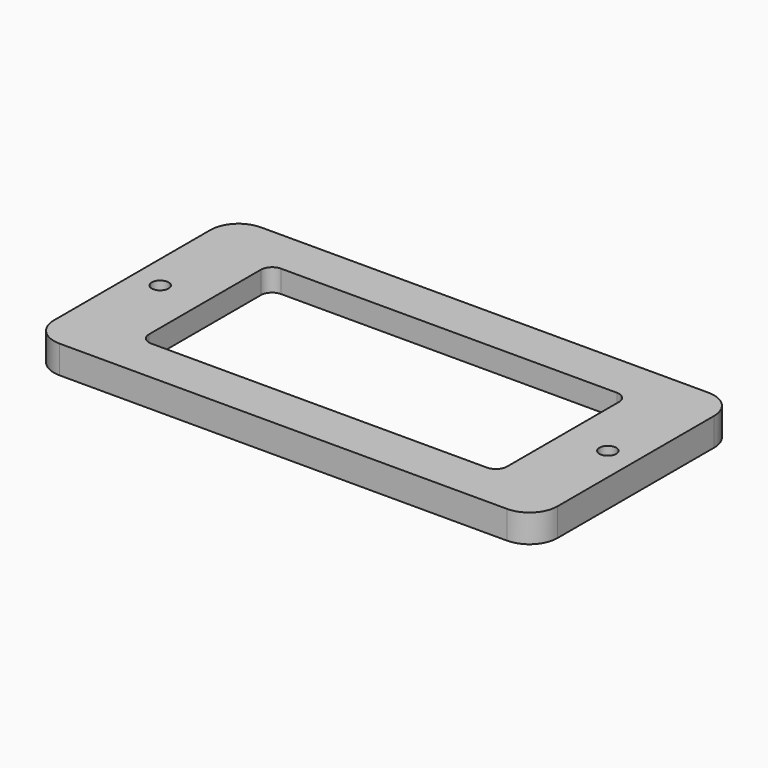
from build123d import *

# Parameters (mm, degrees)
F0_W     = 90
F0_H     = 45
F1_DEPTH = 5
F2_R     = 5
F3_W     = 70
F3_H     = 40
F4_DEPTH = 1
F6_DEPTH = 25
F7_R     = 1.5
F8_DEPTH = 25


with BuildPart() as f1:
    # F0 (on Top) → F1 (new body)
    with BuildSketch(Plane.XY):
        with Locations((45, 22.5)):
            Rectangle(F0_W, F0_H)
    extrude(amount=F1_DEPTH)

    # F2
    f2_edges = [f1.edges().sort_by_distance(p)[0] for p in [
        (90, 45, 2.5),
        (90, 0, 2.5),
        (0, 45, 2.5),
        (0, 0, 2.5),
    ]]
    fillet(f2_edges, radius=F2_R)

    # F3 (on Top) → F4 (cut)
    with BuildSketch(Plane.XY):
        with Locations((45, 25)):
            Rectangle(F3_W, F3_H)
    extrude(amount=F4_DEPTH, mode=Mode.SUBTRACT)

    # F5 (on face) → F6 (cut)
    with BuildSketch(Plane.XY.offset(5)):
        with BuildLine():
            Line((75, 37), (15, 37))
            ThreePointArc((15, 37), (13.585786, 36.414214), (13, 35))
            Line((13, 35), (13, 10))
            ThreePointArc((13, 10), (13.585786, 8.585786), (15, 8))
            Line((15, 8), (75, 8))
            ThreePointArc((75, 8), (76.414214, 8.585786), (77, 10))
            Line((77, 10), (77, 35))
            ThreePointArc((77, 35), (76.414214, 36.414214), (75, 37))
        make_face()
    extrude(amount=-F6_DEPTH, mode=Mode.SUBTRACT)

    # F7 (on face) → F8 (cut)
    with BuildSketch(Plane.XY.offset(5)):
        with Locations((5, 22.5)):
            Circle(F7_R)
        with Locations((85, 22.5)):
            Circle(F7_R)
    extrude(amount=-F8_DEPTH, mode=Mode.SUBTRACT)


solid = f1.part
